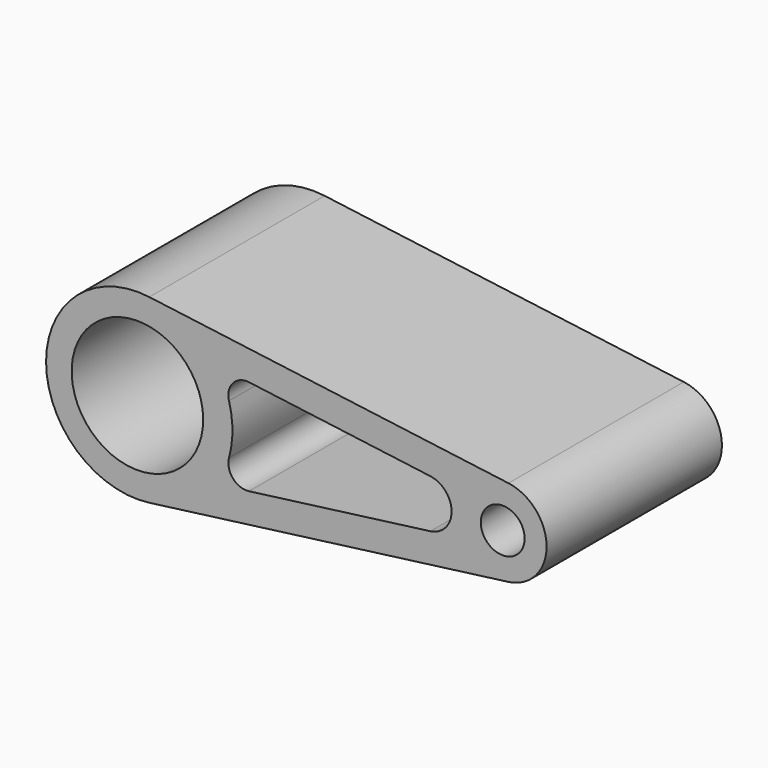
from build123d import *

# Parameters (mm, degrees)
F0_R     = 18
F0_R_2   = 6
F1_DEPTH = 30


with BuildPart() as f1:
    # F0 (on Front) → F1 (new body, symmetric)
    with BuildSketch(Plane.XZ):
        with BuildLine():
            Line((3.25, -24.78785), (101.56, -11.898168))
            ThreePointArc((101.56, -11.898168), (112, 0), (101.56, 11.898168))
            Line((101.56, 11.898168), (3.25, 24.78785))
            ThreePointArc((3.25, 24.78785), (-25, 0), (3.25, -24.78785))
        make_face()
        Circle(F0_R, mode=Mode.SUBTRACT)
        with BuildLine():
            ThreePointArc((25.077968, 6.862616), (26.13184, 11.468083), (30.550655, 13.13992))
            Line((30.550655, 13.13992), (80.18, 6.632887))
            ThreePointArc((80.18, 6.632887), (86, 0), (80.18, -6.632887))
            Line((80.18, -6.632887), (30.550655, -13.13992))
            ThreePointArc((30.550655, -13.13992), (26.13184, -11.468083), (25.077968, -6.862616))
            ThreePointArc((25.077968, -6.862616), (26, 0), (25.077968, 6.862616))
        make_face(mode=Mode.SUBTRACT)
        with Locations((100, 0)):
            Circle(F0_R_2, mode=Mode.SUBTRACT)
    extrude(amount=F1_DEPTH, both=True)


solid = f1.part
